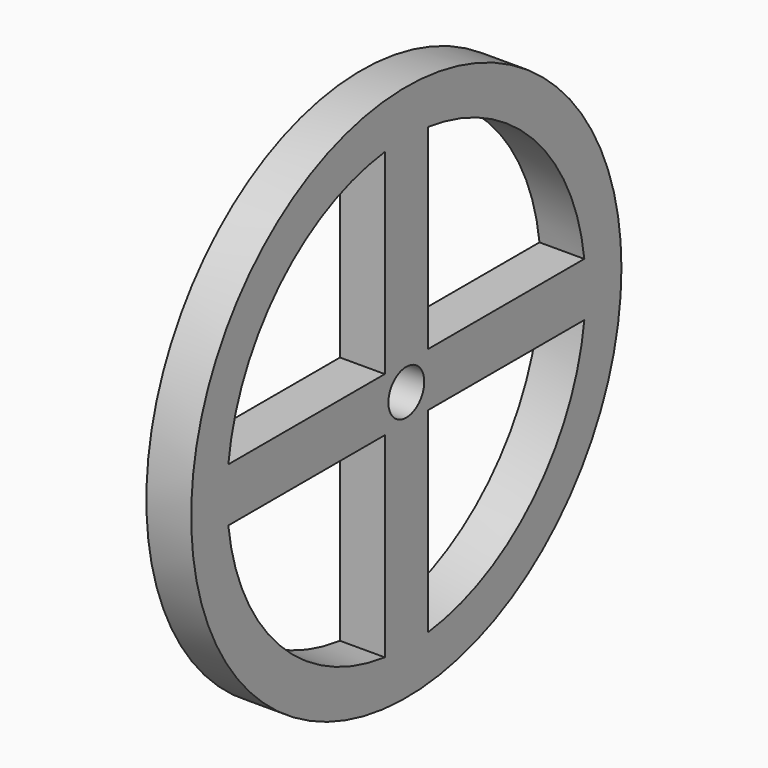
from build123d import *

# Parameters (mm, degrees)
F0_R     = 38.1
F0_R_2   = 31.75
F1_DEPTH = 6.35
F3_DEPTH = 33.02
F4_COUNT = 4
F4_ANGLE = 270
F5_R     = 3.175
F6_DEPTH = 25.4


with BuildPart() as f1:
    # F0 (on Right) → F1 (new body)
    with BuildSketch(Plane.YZ):
        Circle(F0_R)
        Circle(F0_R_2, mode=Mode.SUBTRACT)
    extrude(amount=F1_DEPTH)



with BuildPart() as f3:
    # F2 (on Top) → F3 (new body)
    with BuildSketch(Plane.XY):
        Polygon((0, 3.81), (0, 0), (0, -3.81), (6.35, -3.81), (6.35, 3.81), align=None)
    extrude(amount=F3_DEPTH)


with BuildPart() as f1_1:
    add(f1.part)

    add(f3.part)  # F4 merges F3
    # F4: F3 ×4 about axis
    f4_axis = Axis((6.35, 0, 0), (1, 0, 0))
    for i in range(1, F4_COUNT):
        add(f3.part.rotate(f4_axis, i * F4_ANGLE / (F4_COUNT - 1)))

    # F5 (on face) → F6 (cut)
    with BuildSketch(Plane(origin=(0, 0, 0), x_dir=(0, -1, 0), z_dir=(-1, 0, 0))):
        Circle(F5_R)
    extrude(amount=-F6_DEPTH, mode=Mode.SUBTRACT)


solid = f1_1.part
